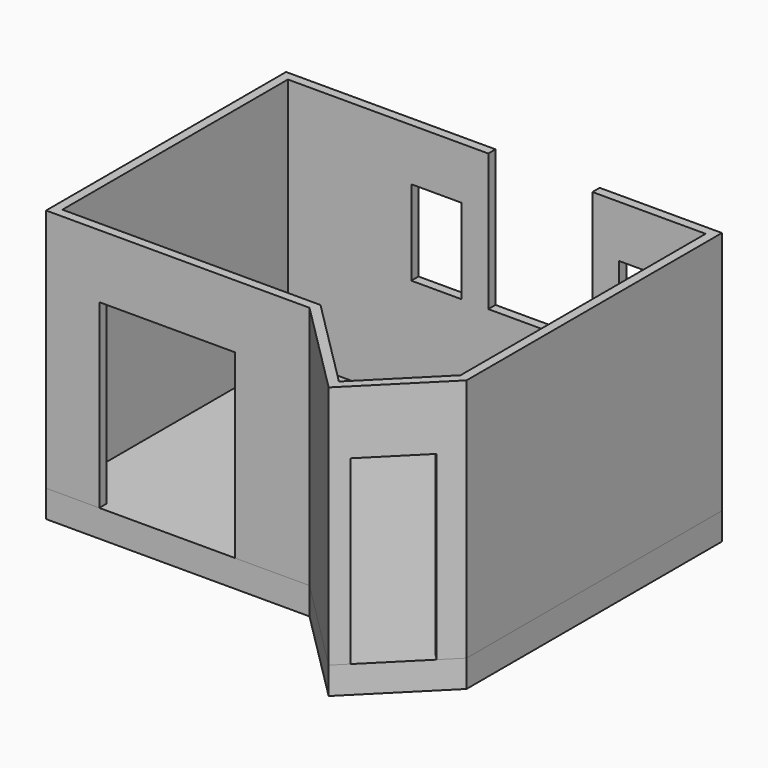
from build123d import *

# Parameters (mm, degrees)
F1_DEPTH = 2743.2
F3_DEPTH = 304.8
F4_W     = 762
F4_H     = 2032
F5_DEPTH = 709.409162
F6_W     = 1524
F6_H     = 2032
F7_DEPTH = 1176.414552
F8_W     = 565.15
F8_H     = 952.5
F8_W_2   = 1168.4
F8_H_2   = 1536.7
F9_DEPTH = 101.601


with BuildPart() as f1:
    # F0 (on Top) → F1 (new body)
    with BuildSketch(Plane.XY):
        Polygon((101.6, 101.6), (-4787.9, 101.6), (-4787.9, -3263.9), (-1832.784098, -3263.9), (-757.970546, -4338.713552), (101.6, -3479.143006), align=None)
        Polygon((-4686.3, 0), (0, 0), (0, -3437.058908), (-757.970546, -4195.029454), (-1790.7, -3162.3), (-4686.3, -3162.3), align=None, mode=Mode.SUBTRACT)
    extrude(amount=F1_DEPTH)

    # F4 (on face) → F5 (cut, through all)
    with BuildSketch(Plane(origin=(1718.529454, -1718.529454, 0), x_dir=(-0.707107, -0.707107, 0), z_dir=(-0.707107, 0.707107, 0))):
        with Locations((3032.399887, 1016)):
            Rectangle(F4_W, F4_H)
    extrude(amount=-F5_DEPTH, mode=Mode.SUBTRACT)

    # F6 (on face) → F7 (cut, through all)
    with BuildSketch(Plane(origin=(0, -3162.3, 0), x_dir=(-1, 0, 0), z_dir=(0, 1, 0))):
        with Locations((3429, 1016)):
            Rectangle(F6_W, F6_H)
    extrude(amount=-F7_DEPTH, mode=Mode.SUBTRACT)

    # F8 (on face) → F9 (cut, through all)
    with BuildSketch(Plane.XZ):
        with Locations((-3019.425, 1682.75)):
            Rectangle(F8_W, F8_H)
        with Locations((-1854.2, 1974.85)):
            Rectangle(F8_W_2, F8_H_2)
        with Locations((-688.975, 1682.75)):
            Rectangle(F8_W, F8_H)
    extrude(amount=-F9_DEPTH, mode=Mode.SUBTRACT)


with BuildPart() as f3:
    # F2 (on Top) → F3 (new body)
    with BuildSketch(Plane.XY):
        Polygon((101.6, -3479.143006), (101.6, 101.6), (-4787.9, 101.6), (-4787.9, -3263.9), (-1832.784098, -3263.9), (-757.970546, -4338.713552), align=None)
    extrude(amount=-F3_DEPTH)


solid = Compound([f1.part, f3.part])
